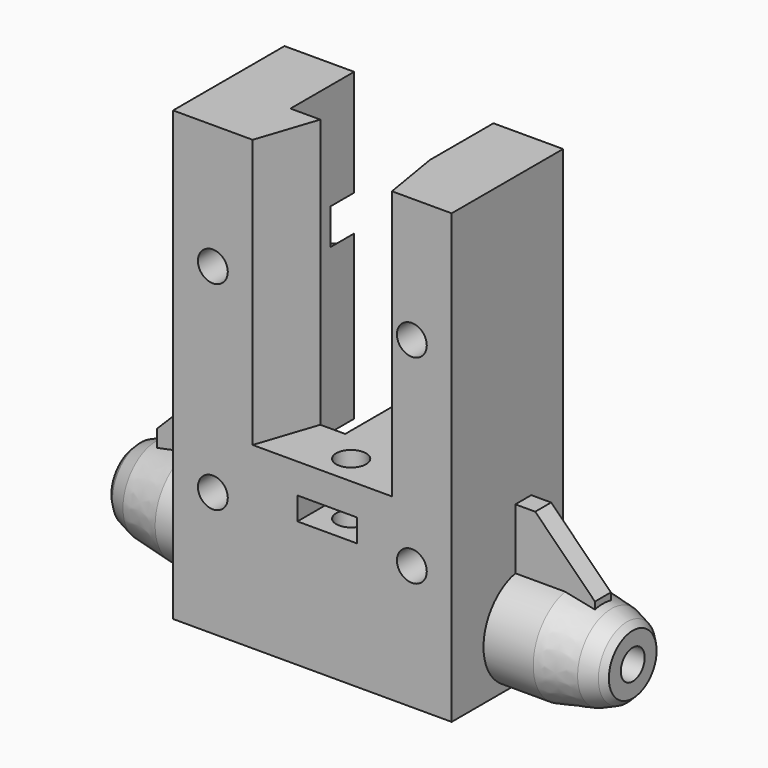
from build123d import *

# Parameters (mm, degrees)
SKETCH021_W     = 28
SKETCH021_H     = 45
SKETCH021_R     = 1.5
PAD010_DEPTH    = 6
SKETCH022_W     = 7
SKETCH022_H     = 45
SKETCH022_R     = 1.5
SKETCH022_W_2   = 6
SKETCH022_H_2   = 10
SKETCH022_H_3   = 6
PAD011_DEPTH    = 8
SKETCH032_R     = 3.5
POCKET010_DEPTH = 3
POCKET011_DEPTH = 27
SKETCH034_R     = 1.5
POCKET012_DEPTH = 19
SKETCH035_R     = 5
PAD012_DEPTH    = 11
SKETCH036_R     = 5
PAD013_DEPTH    = 11
SKETCH037_R     = 1.5
POCKET013_DEPTH = 20
SKETCH038_R     = 1.5
POCKET014_DEPTH = 20
CHAMFER005_SIZE = 2
CHAMFER006_SIZE = 2
CHAMFER007_SIZE = 2
SKETCH039_W     = 9
SKETCH039_H     = 2
PAD014_DEPTH    = 8
SKETCH040_W     = 8
SKETCH040_H     = 2
PAD015_DEPTH    = 8
CHAMFER008_SIZE = 6
SKETCH041_W     = 6
SKETCH041_H     = 2.3
POCKET015_DEPTH = 6
CHAMFER012_SIZE = 2
PAD017_DEPTH    = 1
SKETCH047_W     = 2.3
SKETCH047_H     = 6
POCKET018_DEPTH = 9


with BuildPart() as part:
    # Sketch021 → Pad010 (new body)
    with BuildSketch(Plane.XZ):
        with Locations((14, 22.5)):
            Rectangle(SKETCH021_W, SKETCH021_H)
        with Locations((4, 32.5)):
            Circle(SKETCH021_R, mode=Mode.SUBTRACT)
        with Locations((24, 32.5)):
            Circle(SKETCH021_R, mode=Mode.SUBTRACT)
        with Locations((4, 12.5)):
            Circle(SKETCH021_R, mode=Mode.SUBTRACT)
        with Locations((24, 12.5)):
            Circle(SKETCH021_R, mode=Mode.SUBTRACT)
    extrude(amount=PAD010_DEPTH)

    # Sketch022 (on Face9 of Pad010) → Pad011 (join)
    with BuildSketch(Plane(origin=(0, 0, 0), x_dir=(1, 0, 0), z_dir=(0, 1, 0))):
        with Locations((3.5, -22.5)):
            Rectangle(SKETCH022_W, SKETCH022_H)
        with Locations((4, -12.5)):
            Circle(SKETCH022_R, mode=Mode.SUBTRACT)
        with Locations((4, -32.5)):
            Circle(SKETCH022_R, mode=Mode.SUBTRACT)
        with Locations((24.5, -22.5)):
            Rectangle(SKETCH022_W, SKETCH022_H)
        with Locations((24, -12.5)):
            Circle(SKETCH022_R, mode=Mode.SUBTRACT)
        with Locations((24, -32.5)):
            Circle(SKETCH022_R, mode=Mode.SUBTRACT)
        with Locations((15.5, -5)):
            Rectangle(SKETCH022_W_2, SKETCH022_H_2)
        with Locations((15.5, -15)):
            Rectangle(SKETCH022_W_2, SKETCH022_H_3)
    extrude(amount=PAD011_DEPTH)

    # Sketch032 → Pocket010 (cut)
    with BuildSketch(Plane(origin=(0, 8, 0), x_dir=(1, 0, 0), z_dir=(0, 1, 0))):
        with Locations((4, -12.5)):
            Circle(SKETCH032_R)
        with Locations((4, -32.5)):
            Circle(SKETCH032_R)
        with Locations((24, -32.5)):
            Circle(SKETCH032_R)
        with Locations((24, -12.5)):
            Circle(SKETCH032_R)
    extrude(amount=-POCKET010_DEPTH, mode=Mode.SUBTRACT)

    # Sketch033 (on Face4 of Pocket010) → Pocket011 (cut)
    with BuildSketch(Plane(origin=(0, 0, 45), x_dir=(-1, 0, 0), z_dir=(0, 0, 1))):
        Polygon((-22, 6), (-8, 6), (-10, 0), (-21, 0), align=None)
    extrude(amount=-POCKET011_DEPTH, mode=Mode.SUBTRACT)

    # Sketch034 (on Face5 of Pocket011) → Pocket012 (cut)
    with BuildSketch(Plane(origin=(0, 0, 18), x_dir=(-1, 0, 0), z_dir=(0, 0, 1))):
        with Locations((-15.5, 3)):
            Circle(SKETCH034_R)
    extrude(amount=-POCKET012_DEPTH, mode=Mode.SUBTRACT)

    # Sketch035 (on Face14 of Pocket012) → Pad012 (join)
    with BuildSketch(Plane(origin=(0, 0, 0), x_dir=(0, 0, -1), z_dir=(-1, 0, 0))):
        with Locations((-5, -3)):
            Circle(SKETCH035_R)
    extrude(amount=PAD012_DEPTH)

    # Sketch036 (on Face21 of Pocket012) → Pad013 (join)
    with BuildSketch(Plane(origin=(28, 0, 0), x_dir=(0, 0, 1), z_dir=(1, 0, 0))):
        with Locations((5, -3)):
            Circle(SKETCH036_R)
    extrude(amount=PAD013_DEPTH)

    # Sketch037 (on Face35 of Pad013) → Pocket013 (cut)
    with BuildSketch(Plane(origin=(-11, 0, 0), x_dir=(0, 0, -1), z_dir=(-1, 0, 0))):
        with Locations((-5, -3)):
            Circle(SKETCH037_R)
    extrude(amount=-POCKET013_DEPTH, mode=Mode.SUBTRACT)

    # Sketch038 (on Face52 of Pocket013) → Pocket014 (cut)
    with BuildSketch(Plane(origin=(39, 0, 0), x_dir=(0, 0, 1), z_dir=(1, 0, 0))):
        with Locations((5, -3)):
            Circle(SKETCH038_R)
    extrude(amount=-POCKET014_DEPTH, mode=Mode.SUBTRACT)

    # Chamfer005
    chamfer005_edges = [part.edges().sort_by_distance(p)[0] for p in [
        (39, 3, 0),
        (-11, 3, 10),
    ]]
    chamfer(chamfer005_edges, length=CHAMFER005_SIZE)

    # Chamfer006
    chamfer006_edges = [part.edges().sort_by_distance(p)[0] for p in [
        (37, 3, 0),
        (-9, 3, 10),
    ]]
    chamfer(chamfer006_edges, length=CHAMFER006_SIZE)

    # Chamfer007
    chamfer007_edges = [part.edges().sort_by_distance(p)[0] for p in [
        (35, 3, 2.2e-05),
        (-7, 3, 9.999978),
    ]]
    chamfer(chamfer007_edges, length=CHAMFER007_SIZE)

    # Sketch039 (on Face4 of Chamfer007) → Pad014 (join)
    with BuildSketch(Plane(origin=(0, 0, 0), x_dir=(0, 0, -1), z_dir=(-1, 0, 0))):
        with Locations((-12.5, -3)):
            Rectangle(SKETCH039_W, SKETCH039_H)
    extrude(amount=PAD014_DEPTH)

    # Sketch040 (on Face48 of Pad014) → Pad015 (join)
    with BuildSketch(Plane(origin=(28, 0, 0), x_dir=(0, 0, 1), z_dir=(1, 0, 0))):
        with Locations((12, -3)):
            Rectangle(SKETCH040_W, SKETCH040_H)
    extrude(amount=PAD015_DEPTH)

    # Chamfer008
    chamfer008_edges = [part.edges().sort_by_distance(p)[0] for p in [
        (-8, 3, 17),
        (36, 3, 16),
    ]]
    chamfer(chamfer008_edges, length=CHAMFER008_SIZE)

    # Sketch041 (on Face17 of Chamfer008) → Pocket015 (cut)
    with BuildSketch(Plane.XZ.offset(6)):
        with Locations((15.5, 13.85)):
            Rectangle(SKETCH041_W, SKETCH041_H)
    extrude(amount=-POCKET015_DEPTH, mode=Mode.SUBTRACT)

    # Chamfer012
    chamfer012_edges = [part.edges().sort_by_distance(p)[0] for p in [
        (18.5, 4, 10),
    ]]
    chamfer(chamfer012_edges, length=CHAMFER012_SIZE)

    # Sketch045 (on Face18 of Chamfer012) → Pad017 (join)
    with BuildSketch(Plane(origin=(0, 8, 0), x_dir=(1, 0, 0), z_dir=(0, 1, 0))):
        Polygon((12.5, 0), (21, 0), (21, -10.697224), (18.5, -12), (18.5, -18), (12.5, -18), align=None)
    extrude(amount=-PAD017_DEPTH)

    # Sketch047 (on Face25 of Pad017) → Pocket018 (cut)
    with BuildSketch(Plane(origin=(0, 8, 0), x_dir=(1, 0, 0), z_dir=(0, 1, 0))):
        with Locations((3.15, -5)):
            Rectangle(SKETCH047_W, SKETCH047_H)
        with Locations((24.85, -5)):
            Rectangle(SKETCH047_W, SKETCH047_H)
    extrude(amount=-POCKET018_DEPTH, mode=Mode.SUBTRACT)


with BuildPart() as part_1:
    # Body007 placement: moved
    add(part.part.moved(Location((-14, 27.5, 3))))


solid = part_1.part
